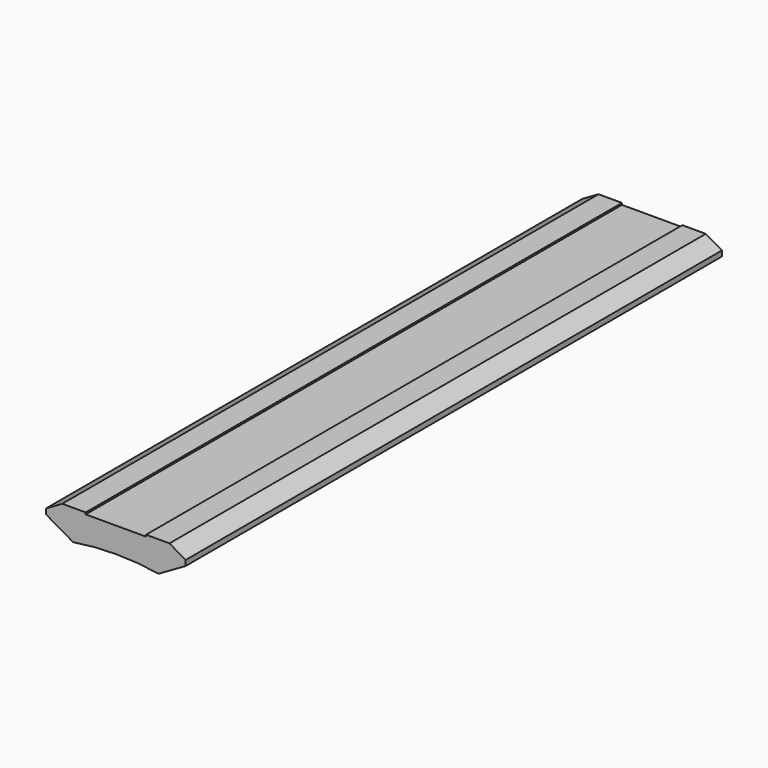
from build123d import *

# Parameters (mm, degrees)
F1_DEPTH = 250


with BuildPart() as f1:
    # F0 (on Front) → F1 (new body, symmetric)
    with BuildSketch(Plane.XZ):
        with BuildLine():
            Line((22.5, 9.667844), (0, 9.667844))
            Line((0, 9.667844), (-22.5, 9.667844))
            Line((-22.5, 9.667844), (-22.5, 10.967844))
            Line((-22.5, 10.967844), (-39.981433, 10.967844))
            Line((-39.981433, 10.967844), (-52.056458, 4))
            Line((-52.056458, 4), (-52.056458, 0))
            Line((-52.056458, 0), (-31.907188, -11.633186))
            ThreePointArc((-31.907188, -11.633186), (0, -9.071611), (31.907188, -11.633186))
            Line((31.907188, -11.633186), (52.056458, 0))
            Line((52.056458, 0), (52.056458, 4))
            Line((52.056458, 4), (39.981433, 10.967844))
            Line((39.981433, 10.967844), (22.5, 10.967844))
            Line((22.5, 10.967844), (22.5, 9.667844))
        make_face()
    extrude(amount=F1_DEPTH, both=True)


solid = f1.part
